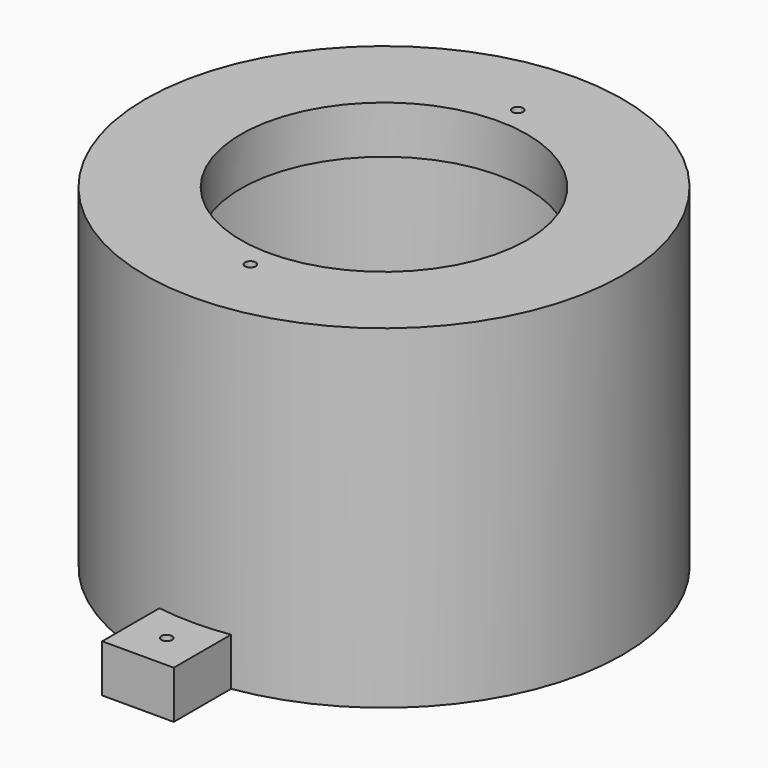
from build123d import *

# Parameters (mm, degrees)
SKETCH001_R      = 1.125
EXTRUDE001_DEPTH = 10
SKETCH_R         = 1.125
EXTRUDE_DEPTH    = 10
TUBE001_R        = 40
TUBE001_R_2      = 30
TUBE001_DEPTH    = 10
TUBE_R           = 50
TUBE_R_2         = 40
TUBE_DEPTH       = 70


with BuildPart() as extrude001:
    # Sketch001 (on Face21 of Fusion001) → Extrude001 (new body)
    with BuildSketch(Plane.XY.offset(70)):
        with Locations((0, 35)):
            Circle(SKETCH001_R)
        with Locations((0, -35)):
            Circle(SKETCH001_R)
    extrude(amount=-EXTRUDE001_DEPTH)


with BuildPart() as extrude_body:
    # Sketch (on Face3 of Tube) → Extrude (new body)
    with BuildSketch(Plane(origin=(0, 0, 0), x_dir=(1, 0, 0), z_dir=(0, 0, -1))):
        Polygon((7.5, 49.4343), (7.5, 64.4343), (0, 64.4343), (-7.5, 64.4343), (-7.5, 49.4343), (0, 49.4343), align=None)
        with Locations((0, 56.9343)):
            Circle(SKETCH_R, mode=Mode.SUBTRACT)
        Polygon((7.5, -49.4343), (7.5, -64.4343), (0, -64.4343), (-7.5, -64.4343), (-7.5, -49.4343), (0, -49.4343), align=None)
        with Locations((0, -56.9343)):
            Circle(SKETCH_R, mode=Mode.SUBTRACT)
    extrude(amount=-EXTRUDE_DEPTH)


with BuildPart() as tube001:
    # Tube001 → Tube001 (new body)
    with BuildSketch(Plane.XY.offset(60)):
        Circle(TUBE001_R)
        Circle(TUBE001_R_2, mode=Mode.SUBTRACT)
    extrude(amount=TUBE001_DEPTH)


with BuildPart() as bigredbuttonmount001:
    # Tube → Tube (new body)
    with BuildSketch(Plane.XY):
        Circle(TUBE_R)
        Circle(TUBE_R_2, mode=Mode.SUBTRACT)
    extrude(amount=TUBE_DEPTH)

    # Fusion: union Tube001
    add(tube001.part)

    # Fusion001: union Extrude body
    add(extrude_body.part)

    # Cut: cut Extrude001
    add(extrude001.part, mode=Mode.SUBTRACT)


solid = bigredbuttonmount001.part
